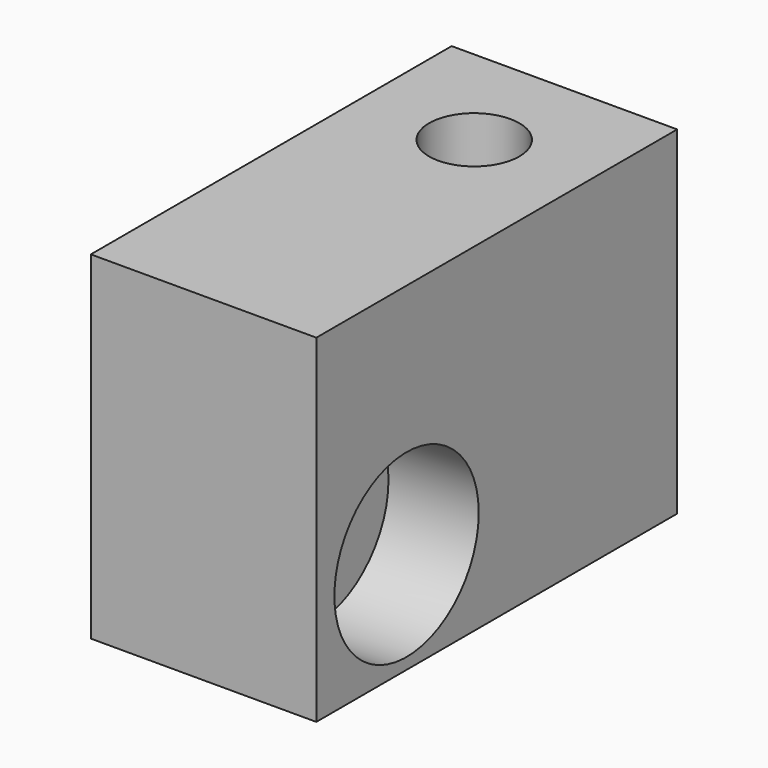
from build123d import *

# Parameters (mm, degrees)
F0_W     = 10
F0_H     = 20
F1_DEPTH = 15
F2_R     = 2
F3_DEPTH = 20
F2_R_2   = 4
F4_DEPTH = 4
F5_R     = 2
F6_DEPTH = 20


with BuildPart() as f1:
    # F0 (on Top) → F1 (new body)
    with BuildSketch(Plane.XY):
        with Locations((-0.84982, 4.175278)):
            Rectangle(F0_W, F0_H)
    extrude(amount=F1_DEPTH)

    # F2 (on face) → F3 (cut)
    with BuildSketch(Plane.YZ.offset(4.15018)):
        with Locations((-0.824722, 4.5)):
            Circle(F2_R)
    extrude(amount=-F3_DEPTH, mode=Mode.SUBTRACT)

    # F2 (on face) → F4 (cut)
    with BuildSketch(Plane.YZ.offset(4.15018)):
        with Locations((-0.824722, 4.5)):
            Circle(F2_R_2)
        with Locations((-0.824722, 4.5)):
            Circle(F2_R, mode=Mode.SUBTRACT)
    extrude(amount=-F4_DEPTH, mode=Mode.SUBTRACT)

    # F5 (on face) → F6 (cut)
    with BuildSketch(Plane.XY.offset(15)):
        with Locations((-0.84982, 9.175278)):
            Circle(F5_R)
    extrude(amount=-F6_DEPTH, mode=Mode.SUBTRACT)


solid = f1.part
